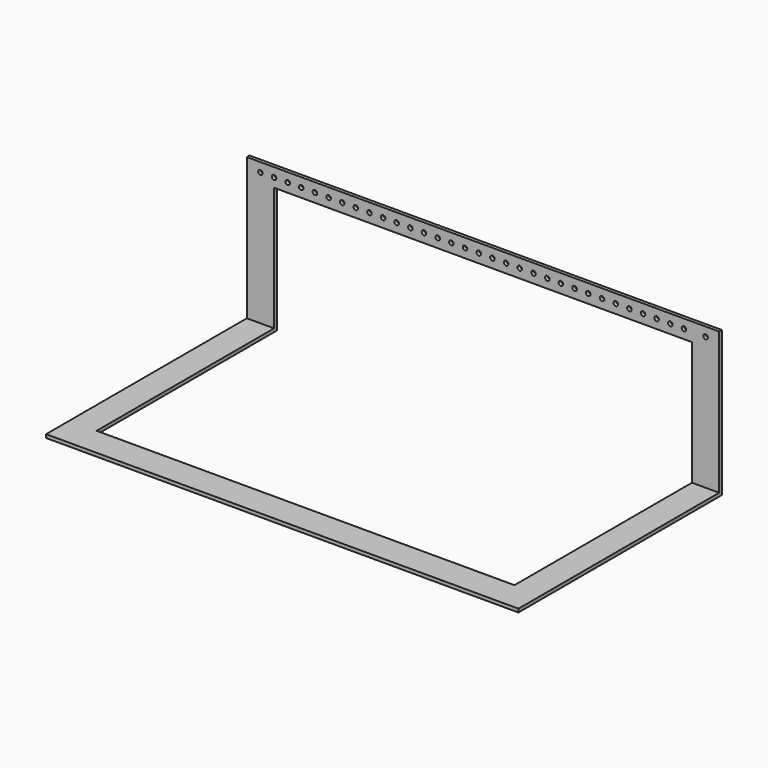
from build123d import *

# Parameters (mm, degrees)
F1_DEPTH = 660.4
F2_W     = 584.2
F2_H     = 173.0248
F3_DEPTH = 355.601
F5_DEPTH = 25.4
F7_D     = 6.35


with BuildPart() as f1:
    # F0 (on Right) → F1 (new body)
    with BuildSketch(Plane.YZ):
        Polygon((-188.84479, 4.7752), (-188.84479, 0), (166.75521, 0), (166.75521, 203.2), (161.98001, 203.2), (161.98001, 4.7752), align=None)
    extrude(amount=F1_DEPTH)

    # F2 (on face) → F3 (cut, through all)
    with BuildSketch(Plane.XZ.offset(188.84479)):
        with Locations((330.2, 91.2876)):
            Rectangle(F2_W, F2_H)
    extrude(amount=-F3_DEPTH, mode=Mode.SUBTRACT)

    # F4 (on face) → F5 (cut)
    with BuildSketch(Plane.XY.offset(4.7752)):
        Polygon((622.3, 166.75521), (38.1, 166.75521), (38.1, 161.98001), (38.1, -148.16235), (622.3, -148.16235), align=None)
    extrude(amount=-F5_DEPTH, mode=Mode.SUBTRACT)

    # F7 (through all)
    with Locations(Plane.XZ.offset(-161.98001)):
        with Locations((19.05, 190.5), (38.1, 190.5), (57.15, 190.5), (76.2, 190.5), (95.25, 190.5), (114.3, 190.5), (133.35, 190.5), (152.4, 190.5), (171.45, 190.5), (190.5, 190.5), (209.55, 190.5), (228.6, 190.5), (247.65, 190.5), (266.954, 190.5), (286.004, 190.5), (305.054, 190.5), (324.358, 190.5), (343.408, 190.5), (362.458, 190.5), (381.508, 190.5), (400.812, 190.5), (420.116, 190.5), (439.166, 190.5), (458.216, 190.5), (477.266, 190.5), (496.57, 190.5), (515.874, 190.5), (534.924, 190.5), (553.974, 190.5), (573.024, 190.5), (611.124, 190.5), (592.074, 190.5), (641.35, 190.5)):
            Hole(F7_D / 2)


solid = f1.part
